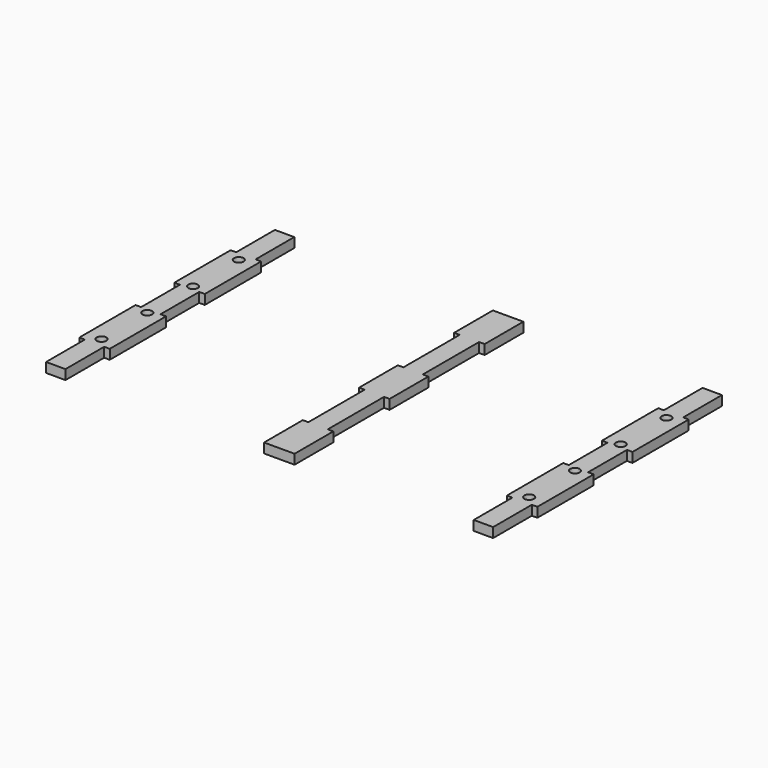
from build123d import *

# Parameters (mm, degrees)
F0_R     = 2.5
F1_DEPTH = 5.08


with BuildPart() as f1:
    # F0 (on Top) → F1 (new body)
    with BuildSketch(Plane.XY):
        Polygon((-127.402619, 25.4), (-127.402619, 0), (-117.242619, 0), (-117.242619, 25.4), (-114.321619, 25.4), (-114.321619, 62.3062), (-117.242619, 62.3062), (-117.242619, 87.7062), (-114.321619, 87.7062), (-114.321619, 124.6), (-117.242619, 124.6), (-117.242619, 150), (-127.402619, 150), (-127.402619, 124.6), (-130.323619, 124.6), (-130.323619, 87.7062), (-127.402619, 87.7062), (-127.402619, 62.3062), (-130.323619, 62.3062), (-130.323619, 25.4), align=None)
        with Locations((-122.322619, 30)):
            Circle(F0_R, mode=Mode.SUBTRACT)
        with Locations((-122.322619, 60)):
            Circle(F0_R, mode=Mode.SUBTRACT)
        with Locations((-122.322619, 90)):
            Circle(F0_R, mode=Mode.SUBTRACT)
        with Locations((-122.322619, 120)):
            Circle(F0_R, mode=Mode.SUBTRACT)
        Polygon((0, 87.7062), (0, 124.6), (2.921, 124.6), (2.921, 150), (0, 150), (-10.16, 150), (-13.081, 150), (-13.081, 124.6), (-10.16, 124.6), (-10.16, 87.7062), (-13.081, 87.7062), (-13.081, 62.3062), (-10.16, 62.3062), (-10.16, 25.4), (-13.081, 25.4), (-13.081, 0), (-10.16, 0), (0, 0), (2.921, 0), (2.921, 25.4), (0, 25.4), (0, 62.3062), (2.921, 62.3062), (2.921, 87.7062), align=None)
        Polygon((96.891231, 25.4), (96.891231, 0), (107.051231, 0), (107.051231, 25.4), (109.972231, 25.4), (109.972231, 62.3062), (107.051231, 62.3062), (107.051231, 87.7062), (109.972231, 87.7062), (109.972231, 124.6), (107.051231, 124.6), (107.051231, 150), (96.891231, 150), (96.891231, 124.6), (93.970231, 124.6), (93.970231, 87.7062), (96.891231, 87.7062), (96.891231, 62.3062), (93.970231, 62.3062), (93.970231, 25.4), align=None)
        with Locations((101.971231, 30)):
            Circle(F0_R, mode=Mode.SUBTRACT)
        with Locations((101.971231, 60)):
            Circle(F0_R, mode=Mode.SUBTRACT)
        with Locations((101.971231, 90)):
            Circle(F0_R, mode=Mode.SUBTRACT)
        with Locations((101.971231, 120)):
            Circle(F0_R, mode=Mode.SUBTRACT)
    extrude(amount=F1_DEPTH)


solid = f1.part
